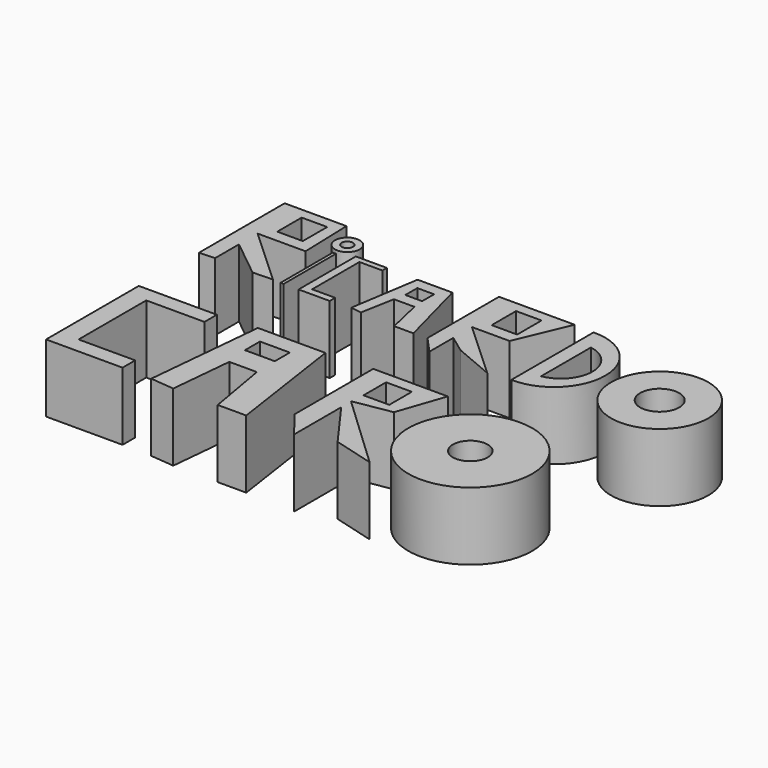
from build123d import *

# Parameters (mm, degrees)
F0_W     = 9.536073
F0_H     = 11.396769
F0_W_2   = 1.162939
F0_H_2   = 24.421656
F0_W_3   = 8.605726
F0_H_3   = 2.093285
F0_W_4   = 3.023634
F0_H_4   = 22.095786
F0_H_5   = 2.558459
F0_W_5   = 6.279856
F0_H_6   = 5.582091
F0_R     = 4.616726
F0_R_2   = 2.106167
F0_H_7   = 11.39677
F0_R_3   = 18.196885
F0_R_4   = 7.299681
F1_DEPTH = 25.4
F2_W     = 21.759618
F2_H     = 5.788458
F2_W_2   = 7.417336
F2_H_2   = 31.627799
F2_W_3   = 21.165684
F2_H_3   = 5.911771
F2_W_4   = 11.166713
F2_H_4   = 7.003504
F2_W_5   = 9.626577
F2_H_5   = 10.544119
F2_R     = 23.155378
F2_R_2   = 6.509144
F3_DEPTH = 25.4


with BuildPart() as f1:
    # F0 (on Top) → F1 (new body)
    with BuildSketch(Plane.XY):
        Polygon((-62.56596, 50.471425), (-68.380639, 50.471425), (-68.380639, 10.466425), (-62.56596, 10.699012), (-62.56596, 21.863198), (-62.56596, 30.585219), align=None)
        Polygon((-45.278189, 50.471425), (-62.56596, 50.471425), (-62.56596, 30.585219), (-44.656744, 30.585219), align=None)
        with Locations((-54.076526, 40.819054)):
            Rectangle(F0_W, F0_H, mode=Mode.SUBTRACT)
        Polygon((-40.935349, 10.699012), (-62.56596, 30.585219), (-62.56596, 21.863198), (-48.37814, 10.466425), align=None)
        with Locations((-37.330247, 22.677253)):
            Rectangle(F0_W_2, F0_H_2)
        with Locations((-23.840189, 36.167312)):
            Rectangle(F0_W_3, F0_H_3)
        with Locations((-29.654869, 36.167312)):
            Rectangle(F0_W_4, F0_H_3)
        with Locations((-29.654869, 24.072777)):
            Rectangle(F0_W_4, F0_H_4)
        with Locations((-23.840189, 11.745655)):
            Rectangle(F0_W_3, F0_H_5)
        with Locations((-29.654869, 11.745655)):
            Rectangle(F0_W_4, F0_H_5)
        Polygon((-7.907964, 36.981367), (-11.958886, 11.100482), (-7.907964, 10.466425), (-5.582093, 23.026133), (2.093286, 23.026133), (5.11692, 9.768663), (12.327122, 9.768663), (5.11692, 36.981367), align=None)
        with Locations((-1.511816, 30.00375)):
            Rectangle(F0_W_5, F0_H_6, mode=Mode.SUBTRACT)
        with Locations((-37.679128, 41.400526)):
            Circle(F0_R)
        with Locations((-37.679128, 41.400526)):
            Circle(F0_R_2, mode=Mode.SUBTRACT)
        Polygon((23.217608, 43.406588), (17.402929, 43.406588), (17.402929, 10.001251), (23.217608, 3.634176), (23.217608, 14.798361), (23.217608, 23.520382), align=None)
        Polygon((45.70768, 43.406588), (23.217608, 43.406588), (23.217608, 23.520382), (37.309691, 23.520382), align=None)
        with Locations((31.707041, 33.754218)):
            Rectangle(F0_W, F0_H_7, mode=Mode.SUBTRACT)
        Polygon((44.848219, 3.634176), (23.217608, 23.520382), (23.217608, 14.798361), (29.771162, 10.001251), align=None)
        with BuildLine():
            ThreePointArc((53.029884, 4.651744), (72.800154, 23.840189), (53.029884, 43.028634))
            Line((53.029884, 43.028634), (53.029884, 4.651744))
        make_face()
        with BuildLine():
            Line((58.379389, 11.861947), (58.379389, 35.12067))
            ThreePointArc((58.379389, 35.12067), (68.28618, 23.491309), (58.379389, 11.861947))
        make_face(mode=Mode.SUBTRACT)
        with Locations((94.895586, 21.630611)):
            Circle(F0_R_3)
        with Locations((94.895586, 21.630611)):
            Circle(F0_R_4, mode=Mode.SUBTRACT)
    extrude(amount=F1_DEPTH)


with BuildPart() as f3:
    # F2 (on Top) → F3 (new body)
    with BuildSketch(Plane.XY):
        with Locations((-50.689129, -19.807878)):
            Rectangle(F2_W, F2_H)
        with Locations((-65.277606, -19.807878)):
            Rectangle(F2_W_2, F2_H)
        with Locations((-65.277606, -38.516006)):
            Rectangle(F2_W_2, F2_H_2)
        with Locations((-50.986096, -57.285791)):
            Rectangle(F2_W_3, F2_H_3)
        with Locations((-65.277606, -57.285791)):
            Rectangle(F2_W_2, F2_H_3)
        Polygon((-25.25148, -15.949626), (-29.519115, -60.437977), (-20.614877, -61.292134), (-18.371023, -37.900865), (-8.061179, -37.900865), (-3.987571, -61.292134), (6.675277, -61.292134), (0, -15.949626), align=None)
        with Locations((-13.832832, -25.778763)):
            Rectangle(F2_W_4, F2_H_4, mode=Mode.SUBTRACT)
        Polygon((45.079157, -15.117963), (17.202187, -15.117963), (17.202187, -51.95858), (25.06683, -61.872255), (25.06683, -39.906763), (37.896238, -57.61433), (53.268798, -61.872255), (24.897642, -35.137221), (39.044365, -32.733675), align=None)
        with Locations((30.257473, -24.675267)):
            Rectangle(F2_W_5, F2_H_5, mode=Mode.SUBTRACT)
        with Locations((71.745455, -37.937522)):
            Circle(F2_R)
        with Locations((71.745455, -37.937522)):
            Circle(F2_R_2, mode=Mode.SUBTRACT)
    extrude(amount=F3_DEPTH)


solid = Compound([f1.part, f3.part])
